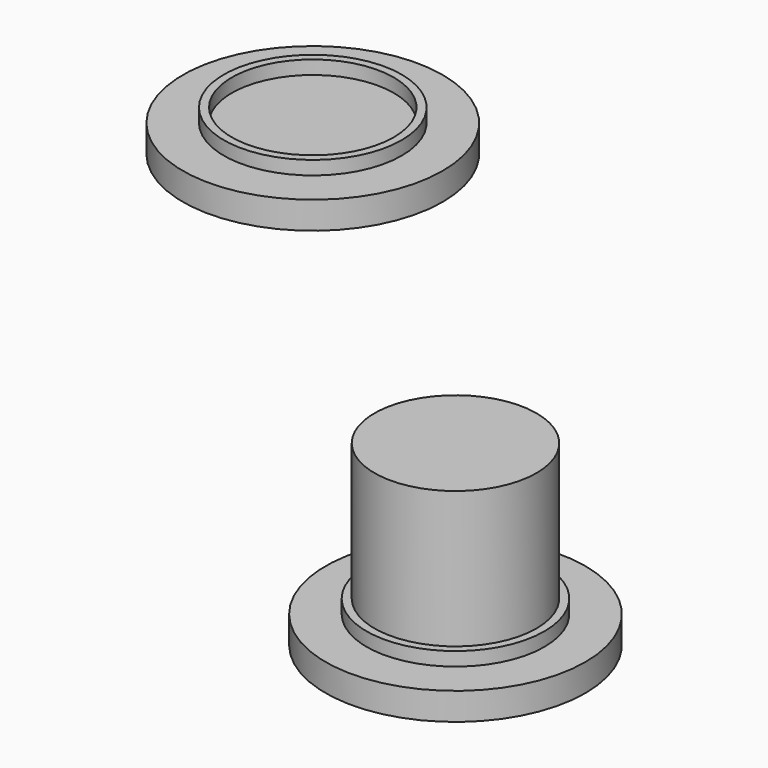
from build123d import *

# Parameters (mm, degrees)
F0_R      = 9.5
F1_DEPTH  = 2
F2_R      = 6.5
F3_DEPTH  = 1
F4_R      = 5.925
F5_DEPTH  = 10
F6_R      = 9.5
F7_DEPTH  = 2
F8_R      = 6.5
F9_DEPTH  = 1
F10_R     = 5.925
F11_DEPTH = 1


with BuildPart() as f1:
    # F0 (on Top) → F1 (new body)
    with BuildSketch(Plane.XY):
        Circle(F0_R)
    extrude(amount=F1_DEPTH)

    # F2 (on face) → F3 (join)
    with BuildSketch(Plane.XY.offset(2)):
        Circle(F2_R)
    extrude(amount=F3_DEPTH)

    # F4 (on face) → F5 (join)
    with BuildSketch(Plane.XY.offset(3)):
        Circle(F4_R)
    extrude(amount=F5_DEPTH)


with BuildPart() as f7:
    # F6 (on Top) → F7 (new body)
    with BuildSketch(Plane.XY):
        with Locations((-44.296876, 42.328127)):
            Circle(F6_R)
    extrude(amount=F7_DEPTH)

    # F8 (on face) → F9 (join)
    with BuildSketch(Plane.XY.offset(2)):
        with Locations((-44.296876, 42.328127)):
            Circle(F8_R)
    extrude(amount=F9_DEPTH)

    # F10 (on face) → F11 (cut)
    with BuildSketch(Plane.XY.offset(3)):
        with Locations((-44.296876, 42.328127)):
            Circle(F10_R)
    extrude(amount=-F11_DEPTH, mode=Mode.SUBTRACT)


solid = Compound([f1.part, f7.part])
